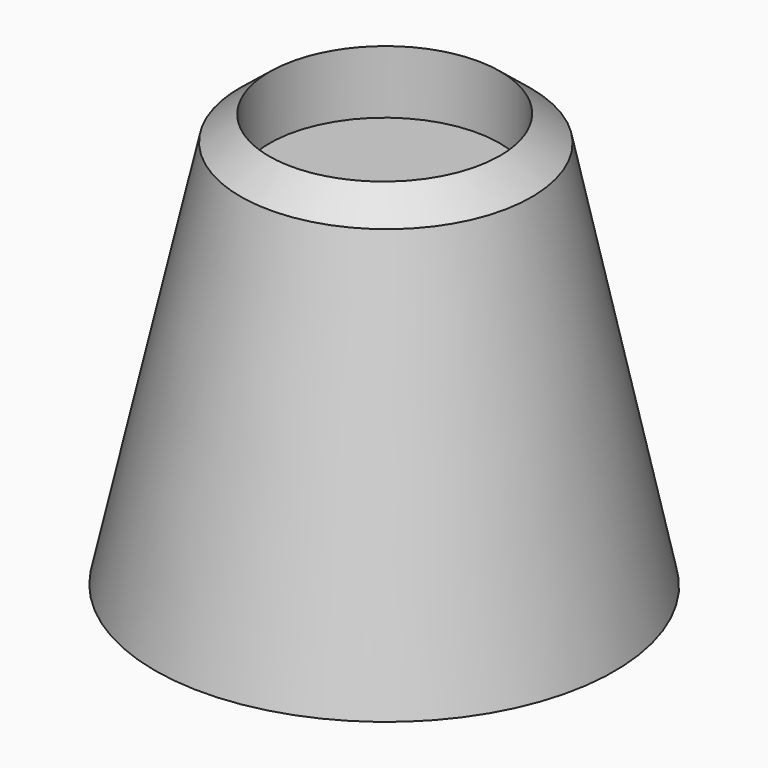
from build123d import *

# Parameters (mm, degrees)
F2_SIZE  = 5.08
F4_R     = 19.05
F5_DEPTH = 11.43


with BuildPart() as f1:
    # F0 (on Front) → F1 (revolve)
    with BuildSketch(Plane.XZ):
        Polygon((0, -17.9517306387), (0, 30.058646322), (-22.86, 30.058646322), (-38.1891950965, -39.389681071), (-0.0891950965, -39.389681071), align=None)
    revolve(axis=Axis((-0.0445975482, 0, -28.6707058549), (-0.0041605808, 0, -0.9999913447)))

    # F2
    f2_edges = [f1.edges().sort_by_distance(p)[0] for p in [
        (23.258707, 0, 29.866764),
    ]]
    chamfer(f2_edges, length=F2_SIZE)

    # F4 (on offset) → F5 (cut)
    with BuildSketch(Plane.XY.offset(30.0736)):
        Circle(F4_R)
    extrude(amount=-F5_DEPTH, mode=Mode.SUBTRACT)


solid = f1.part
